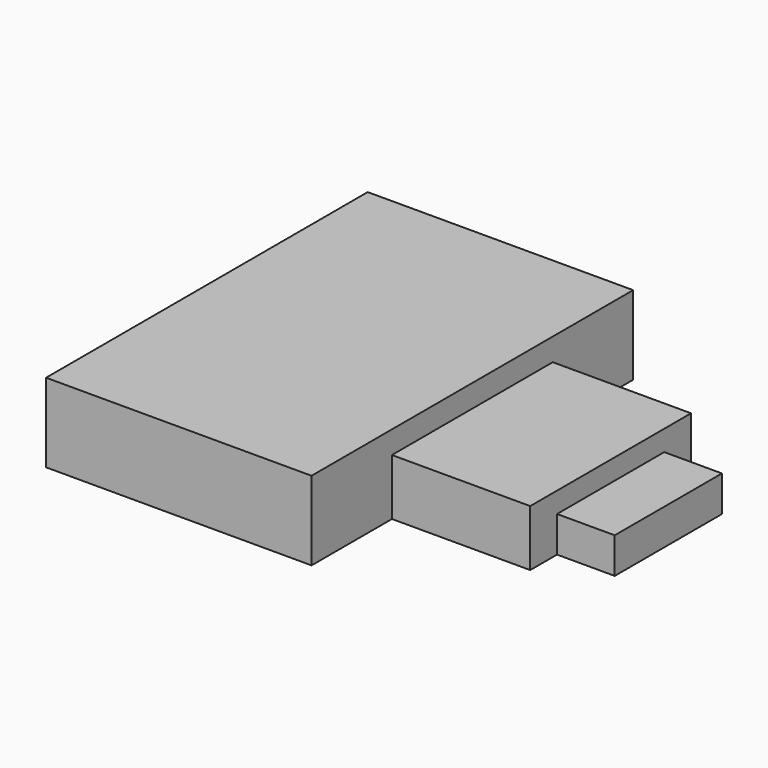
from build123d import *

# Parameters (mm, degrees)
F1_DEPTH = 29.9212
F2_DEPTH = 21.3614
F0_W     = 21.8694
F0_H     = 50.8
F3_DEPTH = 13.5636


with BuildPart() as f1:
    # F0 (on Top) → F1 (new body)
    with BuildSketch(Plane.XY):
        Polygon((-26.2128, -38.1), (-26.2128, 38.1), (-26.2128, 76.2), (-126.8476, 76.2), (-126.8476, -76.2), (-26.2128, -76.2), align=None)
    extrude(amount=F1_DEPTH)

    # F0 (on Top) → F2 (join)
    with BuildSketch(Plane.XY):
        Polygon((26.2128, 25.4), (26.2128, 38.1), (-26.2128, 38.1), (-26.2128, -38.1), (26.2128, -38.1), (26.2128, -25.4), align=None)
    extrude(amount=F2_DEPTH)

    # F0 (on Top) → F3 (join)
    with BuildSketch(Plane.XY):
        with Locations((37.1475, 0)):
            Rectangle(F0_W, F0_H)
    extrude(amount=F3_DEPTH)


solid = f1.part
